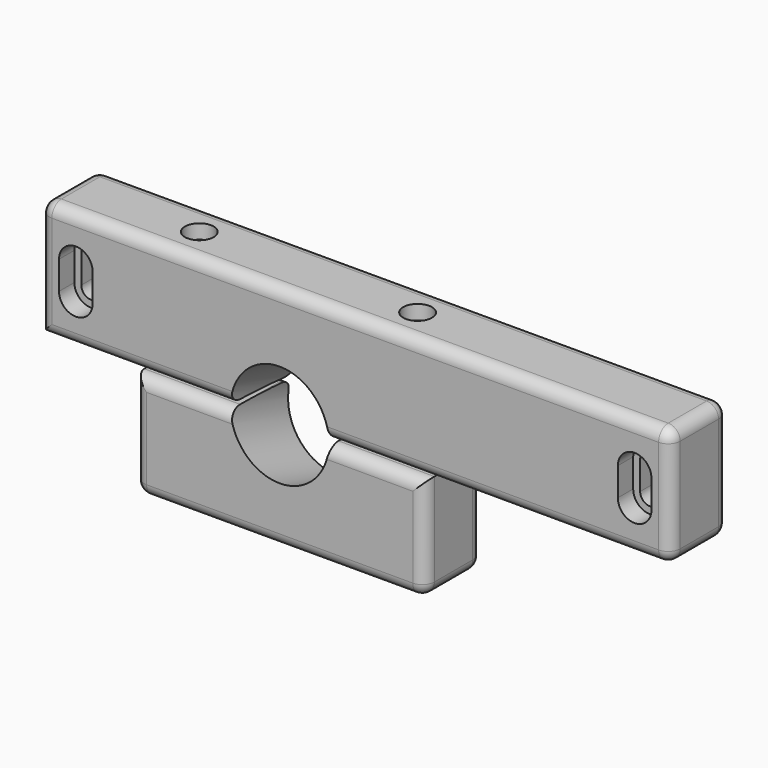
from build123d import *

# Parameters (mm, degrees)
F1_DEPTH  = 30
F3_R      = 20.5
F4_DEPTH  = 40
F6_DEPTH  = 8
F7_R      = 3.1
F8_DEPTH  = 95
F9_DEPTH  = 6
F10_R     = 6
F11_DEPTH = 6
F13_DEPTH = 50
F14_R     = 5


with BuildPart() as f1:
    # F0 (on Front) → F1 (new body)
    with BuildSketch(Plane.XZ):
        with BuildLine():
            Line((131.5, 0), (0, 0))
            Line((0, 0), (-131.5, 0))
            Line((-131.5, 0), (-131.5, -50))
            Line((-131.5, -50), (-92, -50))
            Line((-92, -50), (-52, -50))
            ThreePointArc((-52, -50), (-31.5, -29.5), (-11, -50))
            Line((-11, -50), (29, -50))
            Line((29, -50), (131.5, -50))
            Line((131.5, -50), (131.5, 0))
        make_face()
        with BuildLine():
            ThreePointArc((-112.4, -30.9), (-116.5, -35), (-120.6, -30.9))
            Line((-120.6, -30.9), (-120.6, -19.1))
            ThreePointArc((-120.6, -19.1), (-116.5, -15), (-112.4, -19.1))
            Line((-112.4, -19.1), (-112.4, -30.9))
        make_face(mode=Mode.SUBTRACT)
        with BuildLine():
            ThreePointArc((112.4, -19.1), (116.5, -15), (120.6, -19.1))
            Line((120.6, -19.1), (120.6, -30.9))
            ThreePointArc((120.6, -30.9), (116.5, -35), (112.4, -30.9))
            Line((112.4, -30.9), (112.4, -19.1))
        make_face(mode=Mode.SUBTRACT)
        with BuildLine():
            Line((29, -95), (29, -50))
            Line((29, -50), (-11, -50))
            ThreePointArc((-11, -50), (-31.5, -70.5), (-52, -50))
            Line((-52, -50), (-92, -50))
            Line((-92, -50), (-92, -95))
            Line((-92, -95), (29, -95))
        make_face()
        with BuildLine():
            ThreePointArc((-52, -50), (-31.5, -70.5), (-11, -50))
            Line((-11, -50), (-52, -50))
        make_face()
        with BuildLine():
            Line((-52, -50), (-11, -50))
            ThreePointArc((-11, -50), (-31.5, -29.5), (-52, -50))
        make_face()
    extrude(amount=F1_DEPTH)

    # F3 (on face) → F4 (cut, symmetric)
    with BuildSketch(Plane(origin=(0, -13.4557410016, 4.1138328659), x_dir=(-1, 0, 0), z_dir=(0, 0.956304756, -0.2923717047))):
        with Locations((31.5, -56.5863889398)):
            Circle(F3_R)
    extrude(amount=F4_DEPTH, both=True, mode=Mode.SUBTRACT)

    # F5 (on face) → F6 (cut)
    with BuildSketch(Plane.XZ.offset(30)):
        with BuildLine():
            Line((-109.5, -30.9), (-109.5, -19.1))
            ThreePointArc((-109.5, -19.1), (-116.5, -12.1), (-123.5, -19.1))
            Line((-123.5, -19.1), (-123.5, -30.9))
            ThreePointArc((-123.5, -30.9), (-116.5, -37.9), (-109.5, -30.9))
        make_face()
        with BuildLine():
            Line((-112.4, -19.1), (-112.4, -30.9))
            ThreePointArc((-112.4, -30.9), (-116.5, -35), (-120.6, -30.9))
            Line((-120.6, -30.9), (-120.6, -19.1))
            ThreePointArc((-120.6, -19.1), (-116.5, -15), (-112.4, -19.1))
        make_face(mode=Mode.SUBTRACT)
        with BuildLine():
            Line((109.5, -19.1), (109.5, -30.9))
            ThreePointArc((109.5, -30.9), (116.5, -37.9), (123.5, -30.9))
            Line((123.5, -30.9), (123.5, -19.1))
            ThreePointArc((123.5, -19.1), (116.5, -12.1), (109.5, -19.1))
        make_face()
        with BuildLine():
            Line((112.4, -30.9), (112.4, -19.1))
            ThreePointArc((112.4, -19.1), (116.5, -15), (120.6, -19.1))
            Line((120.6, -19.1), (120.6, -30.9))
            ThreePointArc((120.6, -30.9), (116.5, -35), (112.4, -30.9))
        make_face(mode=Mode.SUBTRACT)
    extrude(amount=-F6_DEPTH, mode=Mode.SUBTRACT)

    # F7 (on face) → F8 (cut, through all)
    with BuildSketch(Plane(origin=(0, 0, -95), x_dir=(1, 0, 0), z_dir=(0, 0, -1))):
        with Locations((-77, 15)):
            Circle(F7_R)
        with Locations((14, 15)):
            Circle(F7_R)
    extrude(amount=-F8_DEPTH, mode=Mode.SUBTRACT)

    # F7 (on face) → F9 (cut)
    with BuildSketch(Plane(origin=(0, 0, -95), x_dir=(1, 0, 0), z_dir=(0, 0, -1))):
        Polygon((-71.2852589366, 15.1083262564), (-74.2364427582, 20.0032740652), (-79.9511838216, 19.8949478088), (-82.7147410634, 14.8916737436), (-79.7635572418, 9.9967259348), (-74.0488161784, 10.1050521912), align=None)
        with Locations((-77, 15)):
            Circle(F7_R, mode=Mode.SUBTRACT)
        Polygon((13.8916737436, 20.7147410634), (8.9967259348, 17.7635572418), (9.1050521912, 12.0488161784), (14.1083262564, 9.2852589366), (19.0032740652, 12.2364427582), (18.8949478088, 17.9511838216), align=None)
        with Locations((14, 15)):
            Circle(F7_R, mode=Mode.SUBTRACT)
    extrude(amount=-F9_DEPTH, mode=Mode.SUBTRACT)

    # F10 (on face) → F11 (cut)
    with BuildSketch(Plane.XY):
        with Locations((-77, -15)):
            Circle(F10_R)
        with Locations((14, -15)):
            Circle(F10_R)
    extrude(amount=-F11_DEPTH, mode=Mode.SUBTRACT)

    # F12 (on face) → F13 (cut)
    with BuildSketch(Plane.XZ.offset(30)):
        with BuildLine():
            Line((-131.5, -49), (-131.5, -50))
            Line((-131.5, -50), (-92, -50))
            Line((-92, -50), (-92, -51.075095057))
            Line((-92, -51.075095057), (-51.9704184128, -51.1511969232))
            add(Edge.make_bspline(
                [(-52, -50), (-52, -50.576014057), (-51.9704184128, -51.1511969232)],
                knots=[4.7123889804, 4.7123889804, 4.7123889804, 4.7763798098, 4.7763798098, 4.7763798098], degree=2, weights=[1, 0.9847233148, 0.970380138]))
            add(Edge.make_bspline(
                [(-51.9839224721, -49.1511712501), (-52, -49.5754191321), (-52, -50)],
                knots=[10.9482163468, 10.9482163468, 10.9482163468, 10.9955742876, 10.9955742876, 10.9955742876], degree=2, weights=[0.9778995402, 0.9886941244, 1]))
            Line((-51.9839224721, -49.1511712501), (-131.5, -49))
        make_face()
        with BuildLine():
            Line((-11.0132613551, -49.2290622408), (-51.9839224721, -49.1511712501))
            add(Edge.make_bspline(
                [(-51.9839224721, -49.1511712501), (-52, -49.5754191321), (-52, -50)],
                knots=[10.9482163468, 10.9482163468, 10.9482163468, 10.9955742876, 10.9955742876, 10.9955742876], degree=2, weights=[0.9778995402, 0.9886941244, 1]))
            add(Edge.make_bspline(
                [(-52, -50), (-52, -50.576014057), (-51.9704184128, -51.1511969232)],
                knots=[4.7123889804, 4.7123889804, 4.7123889804, 4.7763798098, 4.7763798098, 4.7763798098], degree=2, weights=[1, 0.9847233148, 0.970380138]))
            Line((-51.9704184128, -51.1511969232), (-11.0337199069, -51.2290233462))
            add(Edge.make_bspline(
                [(-11.0337199069, -51.2290233462), (-10.9788305182, -50.2295423453), (-11.0132613551, -49.2290622408)],
                knots=[7.8019438057, 7.8019438057, 7.8019438057, 7.88660746, 7.88660746, 7.88660746], degree=2, weights=[0.7506173353, 0.7496129532, 0.7502426643]))
        make_face()
        with BuildLine():
            Line((131.5, -49.5), (-11.0132613551, -49.2290622408))
            add(Edge.make_bspline(
                [(-11.0337199069, -51.2290233462), (-10.9788305182, -50.2295423453), (-11.0132613551, -49.2290622408)],
                knots=[7.8019438057, 7.8019438057, 7.8019438057, 7.88660746, 7.88660746, 7.88660746], degree=2, weights=[0.7506173353, 0.7496129532, 0.7502426643]))
            Line((-11.0337199069, -51.2290233462), (29, -51.3051330798))
            Line((29, -51.3051330798), (29, -50))
            Line((29, -50), (131.5, -50))
            Line((131.5, -50), (131.5, -49.5))
        make_face()
    extrude(amount=-F13_DEPTH, mode=Mode.SUBTRACT)

    # F14
    f14_edges = [f1.edges().sort_by_distance(p)[0] for p in [
        (0, -30, 0),
        (-131.5, -30, -24.5),
        (131.5, -30, -24.75),
        (60.243369, -30, -49.364531),
        (-91.741961, -30, -49.075586),
        (-31.5, -30, -95),
        (-92, -30, -73.037548),
        (-71.985209, -30, -51.113146),
        (8.98314, -30, -51.267078),
        (29, -30, -73.152567),
        (29, -15, -95),
        (29, 0, -73.152567),
        (-31.5, 0, -95),
        (8.2699, 0, -51.265722),
        (-71.256022, 0, -51.114532),
        (-92, 0, -73.037548),
        (-92, -15, -95),
        (-131.5, 0, -24.5),
        (0, 0, 0),
        (59.079645, 0, -49.362319),
        (-90.56229, 0, -49.077828),
        (131.5, 0, -24.75),
        (131.5, -15, -49.5),
        (131.5, -15, 0),
        (-131.5, -15, 0),
    ]]
    fillet(f14_edges, radius=F14_R)


solid = f1.part
